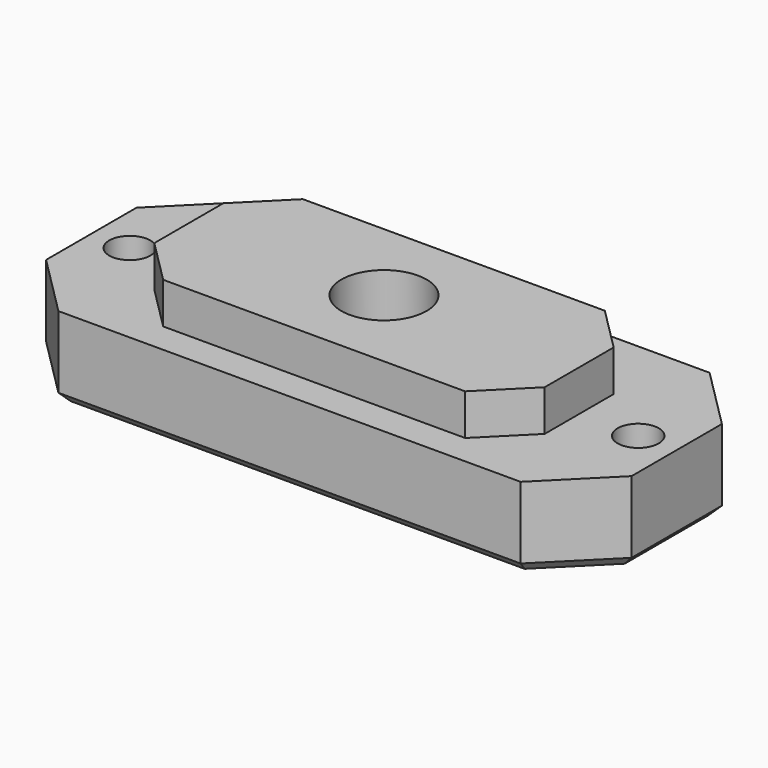
from build123d import *

# Parameters (mm, degrees)
F1_DEPTH = 12
F0_R     = 2
F2_DEPTH = 8
F3_SIZE  = 1
F4_R     = 4.15
F5_DEPTH = 8
F6_R     = 3
F7_DEPTH = 3


with BuildPart() as f1:
    # F0 (on Top) → F1 (new body)
    with BuildSketch(Plane.XY):
        Polygon((14.7, 8.5), (-14.7, 8.5), (-19, 4.2), (-19, -4.2), (-14.7, -8.5), (14.7, -8.5), (19, -4.2), (19, 4.2), align=None)
    extrude(amount=F1_DEPTH)

    # F0 (on Top) → F2 (join)
    with BuildSketch(Plane.XY):
        Polygon((22.5, 11.5), (-22.5, 11.5), (-28.5, 5.5), (-28.5, -5.5), (-22.5, -11.5), (22.5, -11.5), (28.5, -5.5), (28.5, 5.5), align=None)
        with Locations((-24.75, 0)):
            Circle(F0_R, mode=Mode.SUBTRACT)
        Polygon((-19, 4.2), (-14.7, 8.5), (14.7, 8.5), (19, 4.2), (19, -4.2), (14.7, -8.5), (-14.7, -8.5), (-19, -4.2), align=None, mode=Mode.SUBTRACT)
        with Locations((24.75, 0)):
            Circle(F0_R, mode=Mode.SUBTRACT)
    extrude(amount=F2_DEPTH)

    # F3
    f3_edges = [f1.edges().sort_by_distance(p)[0] for p in [
        (0, -11.5, 0),
        (-25.5, -8.5, 0),
        (-28.5, 0, 0),
        (-25.5, 8.5, 0),
        (0, 11.5, 0),
        (25.5, 8.5, 0),
        (28.5, 0, 0),
        (25.5, -8.5, 0),
    ]]
    chamfer(f3_edges, length=F3_SIZE)

    # F4 (on face) → F5 (cut)
    with BuildSketch(Plane.XY.offset(12)):
        Circle(F4_R)
    extrude(amount=-F5_DEPTH, mode=Mode.SUBTRACT)

    # F6 (on Top) → F7 (cut)
    with BuildSketch(Plane.XY):
        with Locations((-23.793586, 0)):
            Circle(F6_R)
        with Locations((23.756452, 0)):
            Circle(F6_R)
    extrude(amount=F7_DEPTH, mode=Mode.SUBTRACT)


solid = f1.part
